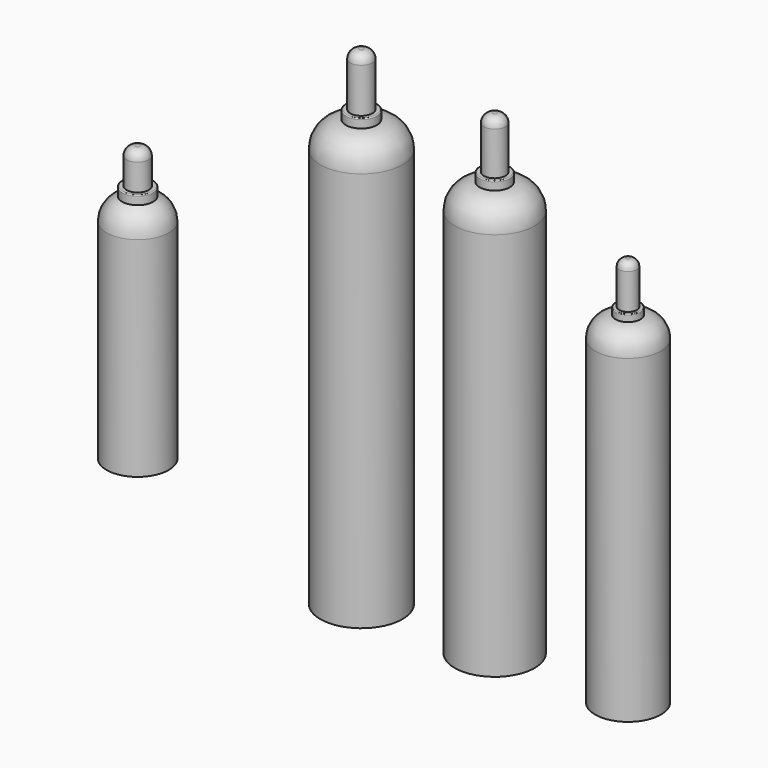
from build123d import *

# Parameters (mm, degrees)
F2_SCALE = 0.97297
F4_SCALE = 0.8


with BuildPart() as f1:
    # F0 (on Front) → F1 (revolve)
    with BuildSketch(Plane.XZ):
        with BuildLine():
            Line((559.436917305, 1107.5938389003), (559.436917305, -35.4061610997))
            Line((559.436917305, -35.4061610997), (676.911917305, -35.4061610997))
            Line((676.911917305, -35.4061610997), (676.911917305, 1361.5938389003))
            Line((676.911917305, 1361.5938389003), (670.561917305, 1361.5938389003))
            ThreePointArc((670.561917305, 1361.5938389003), (652.6014050629, 1354.1543511425), (645.161917305, 1336.1938389003))
            Line((645.161917305, 1336.1938389003), (645.161917305, 1209.1938389003))
            Line((645.161917305, 1209.1938389003), (635.2703841969, 1209.1938389003))
            ThreePointArc((635.2703841969, 1209.1938389003), (633.2844982129, 1208.3712579924), (632.461917305, 1206.3853720084))
            Line((632.461917305, 1206.3853720084), (632.461917305, 1183.7938389003))
            ThreePointArc((632.461917305, 1183.7938389003), (579.690972115, 1161.2748488741), (559.436917305, 1107.5938389003))
        make_face()
    revolve(axis=Axis((676.911917305, 0, 663.0938389003), (0, 0, 1)))


with BuildPart() as f2_1:
    # F2: copy of F1
    add(f1.part.scale(F2_SCALE).moved(Location((18.2969291248, 0, -0.9570285345))))


with BuildPart() as f2_1_1:
    # F3: moved
    add(f2_1.part.moved(Location((381, 0, 0))))


with BuildPart() as f4_1:
    # F4: copy of F1
    add(f1.part.scale(F4_SCALE).moved(Location((135.382383461, 0, -7.0812322199))))


with BuildPart() as f4_1_1:
    # F5: moved
    add(f4_1.part.moved(Location((762, 0, 0))))


with BuildPart() as f7:
    # F6 (on Front) → F7 (revolve)
    with BuildSketch(Plane.XZ):
        with BuildLine():
            Line((-51.3204295356, -499.7369555267), (-51.3204295356, -1096.6369555267))
            Line((-51.3204295356, -1096.6369555267), (37.5795704644, -1096.6369555267))
            Line((37.5795704644, -1096.6369555267), (37.5795704644, -309.2369555267))
            Line((37.5795704644, -309.2369555267), (31.2295704644, -309.2369555267))
            ThreePointArc((31.2295704644, -309.2369555267), (13.2690582223, -316.6764432846), (5.8295704644, -334.6369555267))
            Line((5.8295704644, -334.6369555267), (5.8295704644, -410.8369555267))
            Line((5.8295704644, -410.8369555267), (-4.0619626436, -410.8369555267))
            ThreePointArc((-4.0619626436, -410.8369555267), (-6.0478486276, -411.6595364347), (-6.8704295356, -413.6454224187))
            Line((-6.8704295356, -413.6454224187), (-6.8704295356, -436.2369555267))
            ThreePointArc((-6.8704295356, -436.2369555267), (-39.1037353641, -460.9811414468), (-51.3204295356, -499.7369555267))
        make_face()
    revolve(axis=Axis((37.5795704644, 0, -702.9369555267), (0, 0, 1)))


with BuildPart() as f7_1:
    # F8: moved
    add(f7.part.moved(Location((0, 0, 1219.2))))


solid = Compound([f1.part, f2_1_1.part, f4_1_1.part, f7_1.part])
